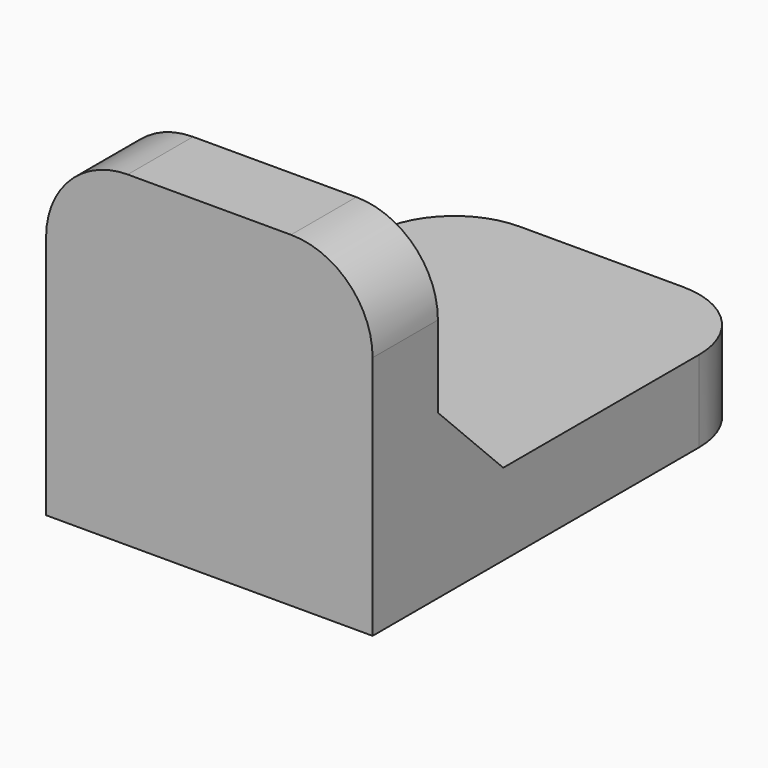
from build123d import *

# Parameters (mm, degrees)
PAD_DEPTH    = 40
FILLET_R     = 10
CHAMFER_SIZE = 10


with BuildPart() as part:
    # Sketch → Pad (new body)
    with BuildSketch(Plane.YZ):
        Polygon((-10, 30), (0, 30), (0, 0), (50, 0), (50, -10), (-10, -10), align=None)
    extrude(amount=PAD_DEPTH)

    # Fillet
    fillet_edges = [part.edges().sort_by_distance(p)[0] for p in [
        (40, -5, 30),
        (0, -5, 30),
        (40, 50, -5),
        (0, 50, -5),
    ]]
    fillet(fillet_edges, radius=FILLET_R)

    # Chamfer
    chamfer_edges = [part.edges().sort_by_distance(p)[0] for p in [
        (20, 0, 0),
    ]]
    chamfer(chamfer_edges, length=CHAMFER_SIZE)


solid = part.part
